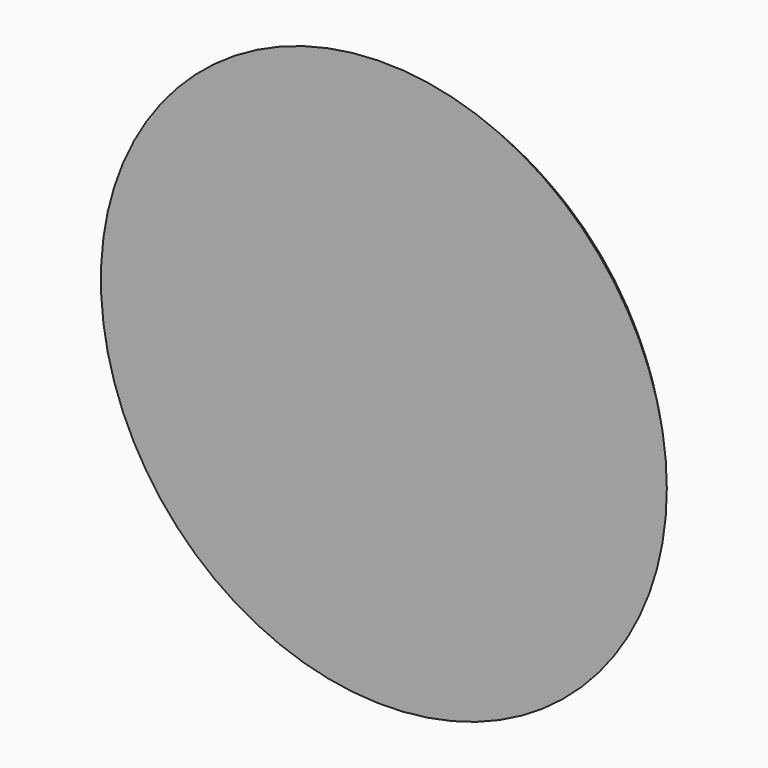
from build123d import *


with BuildPart() as f1:
    # F0 (on Top) → F1 (revolve)
    with BuildSketch(Plane.XY):
        with BuildLine():
            Line((0, 2.268296), (0, 0))
            Line((0, 0), (5.08, 0))
            ThreePointArc((5.08, 0), (2.781707, 1.675466), (0, 2.268296))
        make_face()
    revolve(axis=Axis((0, 1.134148, 0), (0, 1, 0)))


solid = f1.part
